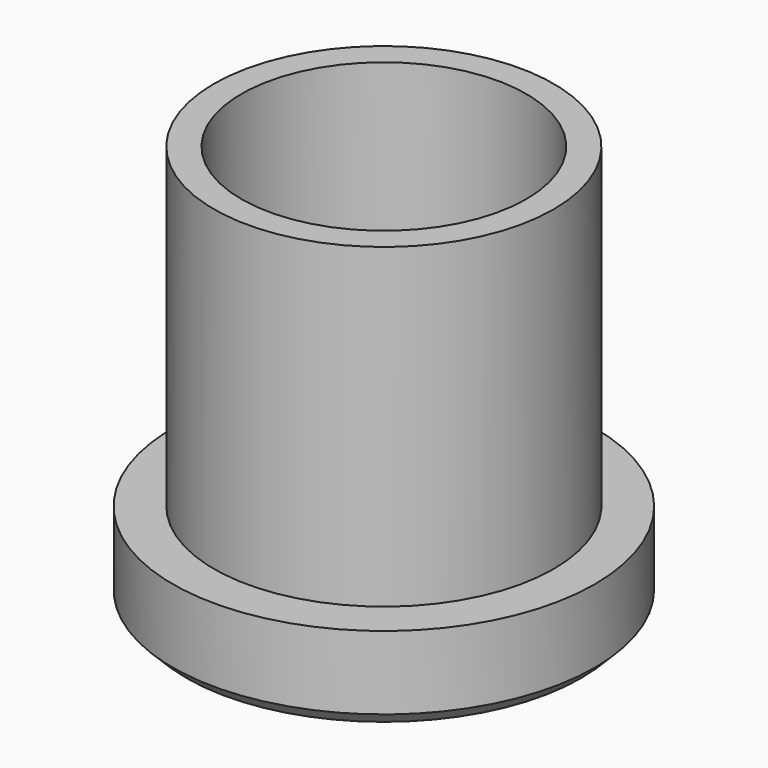
from build123d import *

# Parameters (mm, degrees)
F0_R     = 11.684
F0_R_2   = 7.8867
F1_DEPTH = 4.826
F2_R     = 9.40435
F2_R_2   = 7.8867
F3_DEPTH = 17.526
F4_SIZE2 = 0.762
F4_SIZE  = 0.762


with BuildPart() as f1:
    # F0 (on Top) → F1 (new body)
    with BuildSketch(Plane.XY):
        Circle(F0_R)
        Circle(F0_R_2, mode=Mode.SUBTRACT)
    extrude(amount=F1_DEPTH)

    # F2 (on face) → F3 (join)
    with BuildSketch(Plane.XY.offset(4.826)):
        Circle(F2_R)
        Circle(F2_R_2, mode=Mode.SUBTRACT)
    extrude(amount=F3_DEPTH)

    # F4
    f4_edges = [f1.edges().sort_by_distance(p)[0] for p in [
        (-11.684, 0, 0),
    ]]
    chamfer(f4_edges, length=F4_SIZE, length2=F4_SIZE2)


solid = f1.part
